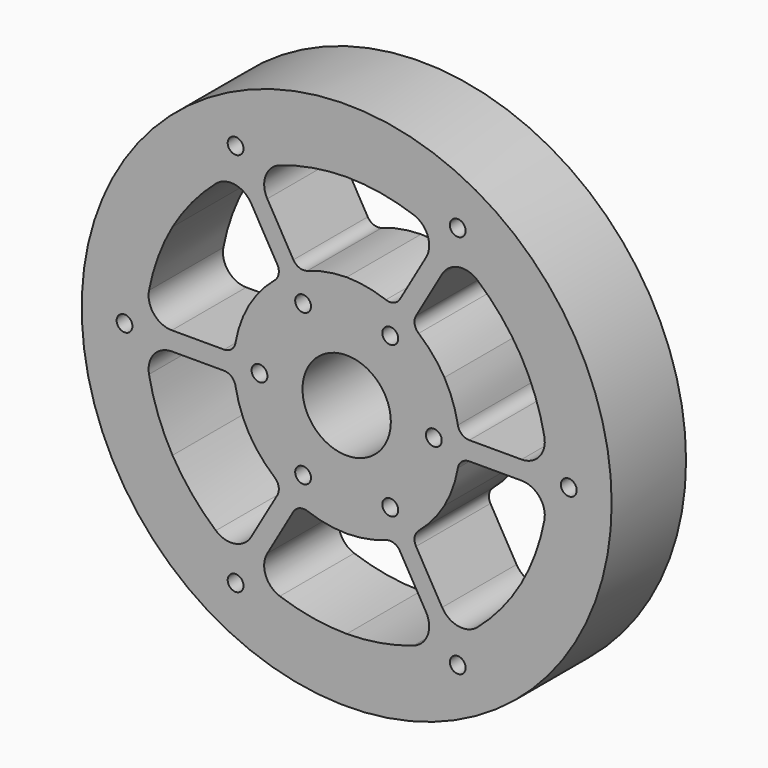
from build123d import *

# Parameters (mm, degrees)
F0_R     = 72.39
F0_R_2   = 2.159
F0_R_3   = 12.065
F1_DEPTH = 25.4


with BuildPart() as f1:
    # F0 (on Front) → F1 (new body)
    with BuildSketch(Plane.XZ):
        Circle(F0_R)
        with Locations((-30.340522, -52.551325)):
            Circle(F0_R_2, mode=Mode.SUBTRACT)
        with BuildLine():
            ThreePointArc((0, -54.938267), (-9.259687, -54.12592), (-18.262741, -51.813624))
            ThreePointArc((-18.262741, -51.813624), (-22.13476, -48.031833), (-21.684225, -42.638179))
            Line((-21.684225, -42.638179), (-14.554108, -30.288454))
            ThreePointArc((-14.554108, -30.288454), (-12.88956, -28.892127), (-10.7169, -28.893036))
            ThreePointArc((-10.7169, -28.893036), (-5.441359, -30.321806), (0, -30.835938))
            ThreePointArc((0, -30.835938), (5.441359, -30.321806), (10.7169, -28.893036))
            ThreePointArc((10.7169, -28.893036), (12.88956, -28.892127), (14.554108, -30.288454))
            Line((14.554108, -30.288454), (21.684225, -42.638179))
            ThreePointArc((21.684225, -42.638179), (22.13476, -48.031833), (18.262741, -51.813624))
            ThreePointArc((18.262741, -51.813624), (9.259687, -54.12592), (0, -54.938267))
        make_face(mode=Mode.SUBTRACT)
        with BuildLine():
            ThreePointArc((-47.577935, -27.469134), (-51.504265, -19.043836), (-54.003286, -10.090814))
            ThreePointArc((-54.003286, -10.090814), (-52.664168, -4.846652), (-47.767859, -2.54))
            Line((-47.767859, -2.54), (-33.507625, -2.54))
            ThreePointArc((-33.507625, -2.54), (-31.466096, -3.283378), (-30.380553, -5.16541))
            ThreePointArc((-30.380553, -5.16541), (-28.980133, -10.448548), (-26.704705, -15.417969))
            ThreePointArc((-26.704705, -15.417969), (-23.538775, -19.873258), (-19.663653, -23.727626))
            ThreePointArc((-19.663653, -23.727626), (-18.576536, -25.60875), (-18.953516, -27.748454))
            Line((-18.953516, -27.748454), (-26.083634, -40.09818))
            ThreePointArc((-26.083634, -40.09818), (-30.529407, -43.185181), (-35.740544, -41.72281))
            ThreePointArc((-35.740544, -41.72281), (-42.244578, -35.082084), (-47.577935, -27.469134))
        make_face(mode=Mode.SUBTRACT)
        with Locations((-11.90625, -20.62223)):
            Circle(F0_R_2, mode=Mode.SUBTRACT)
        with Locations((30.340522, -52.551325)):
            Circle(F0_R_2, mode=Mode.SUBTRACT)
        with Locations((11.90625, -20.62223)):
            Circle(F0_R_2, mode=Mode.SUBTRACT)
        with BuildLine():
            ThreePointArc((47.577935, -27.469134), (42.244578, -35.082084), (35.740544, -41.72281))
            ThreePointArc((35.740544, -41.72281), (30.529407, -43.185181), (26.083634, -40.09818))
            Line((26.083634, -40.09818), (18.953516, -27.748454))
            ThreePointArc((18.953516, -27.748454), (18.576536, -25.60875), (19.663653, -23.727626))
            ThreePointArc((19.663653, -23.727626), (23.538775, -19.873258), (26.704705, -15.417969))
            ThreePointArc((26.704705, -15.417969), (28.980133, -10.448548), (30.380553, -5.16541))
            ThreePointArc((30.380553, -5.16541), (31.466096, -3.283378), (33.507625, -2.54))
            Line((33.507625, -2.54), (47.767859, -2.54))
            ThreePointArc((47.767859, -2.54), (52.664168, -4.846652), (54.003286, -10.090814))
            ThreePointArc((54.003286, -10.090814), (51.504265, -19.043836), (47.577935, -27.469134))
        make_face(mode=Mode.SUBTRACT)
        with Locations((-60.681044, 0)):
            Circle(F0_R_2, mode=Mode.SUBTRACT)
        with BuildLine():
            ThreePointArc((-47.577935, 27.469134), (-42.244578, 35.082084), (-35.740544, 41.72281))
            ThreePointArc((-35.740544, 41.72281), (-30.529407, 43.185181), (-26.083634, 40.09818))
            Line((-26.083634, 40.09818), (-18.953516, 27.748454))
            ThreePointArc((-18.953516, 27.748454), (-18.576536, 25.60875), (-19.663653, 23.727626))
            ThreePointArc((-19.663653, 23.727626), (-23.538775, 19.873258), (-26.704705, 15.417969))
            ThreePointArc((-26.704705, 15.417969), (-28.980133, 10.448548), (-30.380553, 5.16541))
            ThreePointArc((-30.380553, 5.16541), (-31.466096, 3.283378), (-33.507625, 2.54))
            Line((-33.507625, 2.54), (-47.767859, 2.54))
            ThreePointArc((-47.767859, 2.54), (-52.664168, 4.846652), (-54.003286, 10.090814))
            ThreePointArc((-54.003286, 10.090814), (-51.504265, 19.043836), (-47.577935, 27.469134))
        make_face(mode=Mode.SUBTRACT)
        with Locations((-23.8125, 0)):
            Circle(F0_R_2, mode=Mode.SUBTRACT)
        with Locations((-11.90625, 20.62223)):
            Circle(F0_R_2, mode=Mode.SUBTRACT)
        with Locations((-30.340522, 52.551325)):
            Circle(F0_R_2, mode=Mode.SUBTRACT)
        Circle(F0_R_3, mode=Mode.SUBTRACT)
        with Locations((23.8125, 0)):
            Circle(F0_R_2, mode=Mode.SUBTRACT)
        with Locations((11.90625, 20.62223)):
            Circle(F0_R_2, mode=Mode.SUBTRACT)
        with Locations((60.681044, 0)):
            Circle(F0_R_2, mode=Mode.SUBTRACT)
        with BuildLine():
            ThreePointArc((47.577935, 27.469134), (51.504265, 19.043836), (54.003286, 10.090814))
            ThreePointArc((54.003286, 10.090814), (52.664168, 4.846652), (47.767859, 2.54))
            Line((47.767859, 2.54), (33.507625, 2.54))
            ThreePointArc((33.507625, 2.54), (31.466096, 3.283378), (30.380553, 5.16541))
            ThreePointArc((30.380553, 5.16541), (28.980133, 10.448548), (26.704705, 15.417969))
            ThreePointArc((26.704705, 15.417969), (23.538775, 19.873258), (19.663653, 23.727626))
            ThreePointArc((19.663653, 23.727626), (18.576536, 25.60875), (18.953516, 27.748454))
            Line((18.953516, 27.748454), (26.083634, 40.09818))
            ThreePointArc((26.083634, 40.09818), (30.529407, 43.185181), (35.740544, 41.72281))
            ThreePointArc((35.740544, 41.72281), (42.244578, 35.082084), (47.577935, 27.469134))
        make_face(mode=Mode.SUBTRACT)
        with BuildLine():
            ThreePointArc((14.554108, 30.288454), (12.88956, 28.892127), (10.7169, 28.893036))
            ThreePointArc((10.7169, 28.893036), (5.441359, 30.321806), (0, 30.835938))
            ThreePointArc((0, 30.835938), (-5.441359, 30.321806), (-10.7169, 28.893036))
            ThreePointArc((-10.7169, 28.893036), (-12.88956, 28.892127), (-14.554108, 30.288454))
            Line((-14.554108, 30.288454), (-21.684225, 42.638179))
            ThreePointArc((-21.684225, 42.638179), (-22.13476, 48.031833), (-18.262741, 51.813624))
            ThreePointArc((-18.262741, 51.813624), (-9.259687, 54.12592), (0, 54.938267))
            ThreePointArc((0, 54.938267), (9.259687, 54.12592), (18.262741, 51.813624))
            ThreePointArc((18.262741, 51.813624), (22.13476, 48.031833), (21.684225, 42.638179))
            Line((21.684225, 42.638179), (14.554108, 30.288454))
        make_face(mode=Mode.SUBTRACT)
        with Locations((30.340522, 52.551325)):
            Circle(F0_R_2, mode=Mode.SUBTRACT)
    extrude(amount=F1_DEPTH)


solid = f1.part
